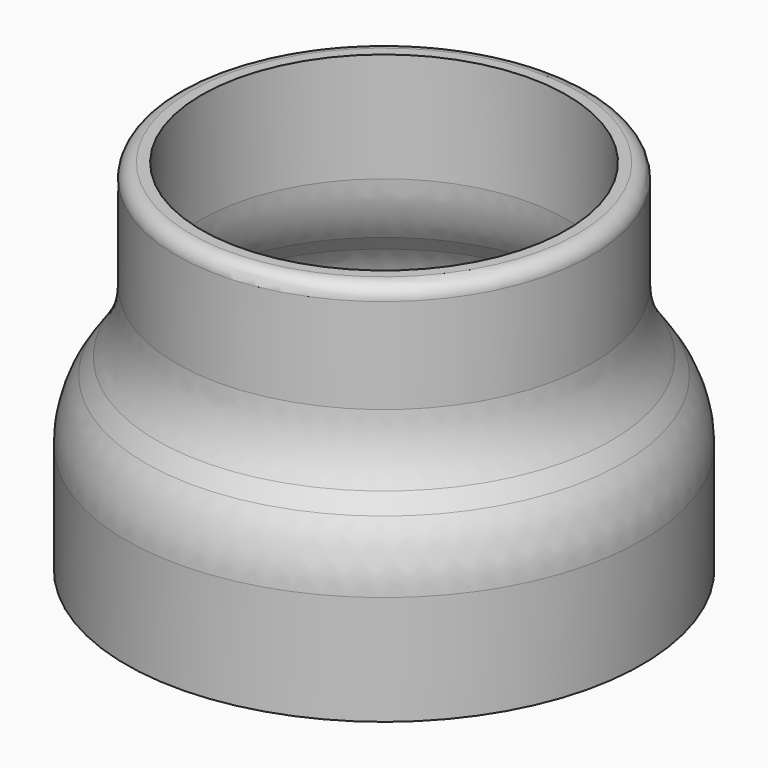
from build123d import *

# Parameters (mm, degrees)
F2_R = 15
F3_R = 2


with BuildPart() as f1:
    # F0 (on Front) → F1 (revolve)
    with BuildSketch(Plane.XZ):
        Polygon((-36, -25), (-32.5, -25), (-32.5, -5), (-25.5, 5), (-25.5, 25), (-29, 25), (-29, 5), (-36, -5), align=None)
    revolve(axis=Axis((0, 0, 12.5), (0, 0, 1)))

    # F2
    f2_edges = [f1.edges().sort_by_distance(p)[0] for p in [
        (29, 0, 5),
        (36, 0, -5),
        (25.5, 0, 5),
        (32.5, 0, -5),
    ]]
    fillet(f2_edges, radius=F2_R)

    # F3
    f3_edges = [f1.edges().sort_by_distance(p)[0] for p in [
        (29, 0, 25),
    ]]
    fillet(f3_edges, radius=F3_R)


solid = f1.part
